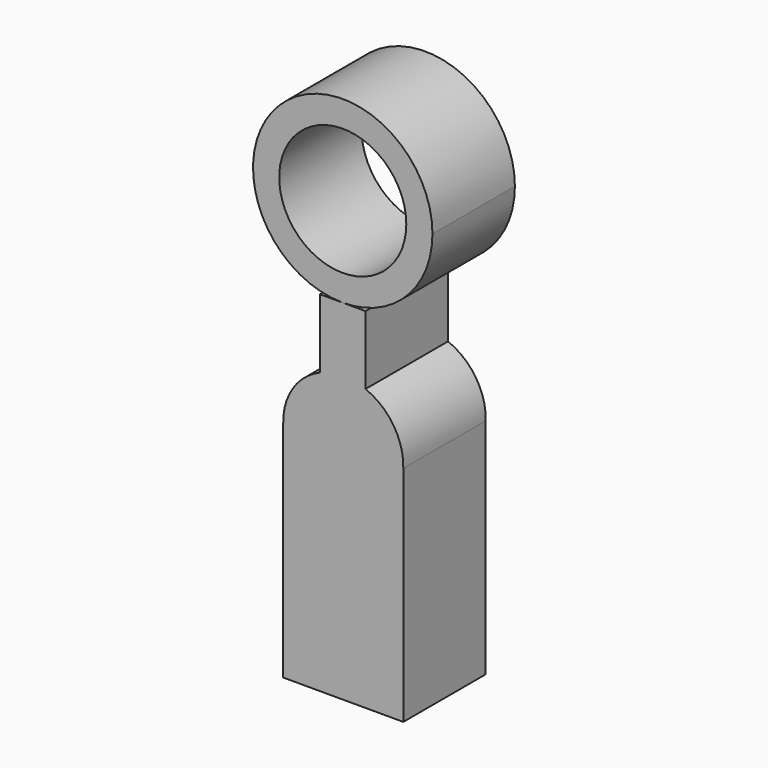
from build123d import *

# Parameters (mm, degrees)
F1_DEPTH = 12.7
F0_R     = 15.660762
F2_DEPTH = 12.7


with BuildPart() as f1:
    # F0 (on Front) → F1 (new body, symmetric)
    with BuildSketch(Plane.XZ):
        with BuildLine():
            Line((9.044379, 86.110003), (9.044379, 69.112956))
            ThreePointArc((9.044379, 69.112956), (14.661603, 70.275832), (20.299211, 69.216185))
            Line((20.299211, 69.216185), (20.299211, 86.110003))
            Line((20.299211, 86.110003), (14.671795, 86.110003))
            Line((14.671795, 86.110003), (9.044379, 86.110003))
        make_face()
        with BuildLine():
            Line((0, 55.002023), (0, 0))
            Line((0, 0), (29.594775, 0))
            Line((29.594775, 0), (29.594775, 55.002023))
            ThreePointArc((29.594775, 55.002023), (27.187912, 63.574587), (20.299211, 69.216185))
            ThreePointArc((20.299211, 69.216185), (14.661603, 70.275832), (9.044379, 69.112956))
            ThreePointArc((9.044379, 69.112956), (2.333067, 63.460604), (0, 55.002023))
        make_face()
    extrude(amount=F1_DEPTH, both=True)

    # F0 (on Front) → F2 (join, symmetric)
    with BuildSketch(Plane.XZ):
        with BuildLine():
            Line((0, 55.002023), (0, 0))
            Line((0, 0), (29.594775, 0))
            Line((29.594775, 0), (29.594775, 55.002023))
            ThreePointArc((29.594775, 55.002023), (27.187912, 63.574587), (20.299211, 69.216185))
            ThreePointArc((20.299211, 69.216185), (14.661603, 70.275832), (9.044379, 69.112956))
            ThreePointArc((9.044379, 69.112956), (2.333067, 63.460604), (0, 55.002023))
        make_face()
        with BuildLine():
            ThreePointArc((36.782101, 108.220309), (-0.962552, 123.854656), (14.671795, 86.110003))
            ThreePointArc((14.671795, 86.110003), (30.306142, 92.585962), (36.782101, 108.220309))
        make_face()
        with Locations((14.671795, 108.220309)):
            Circle(F0_R, mode=Mode.SUBTRACT)
        with BuildLine():
            Line((9.044379, 86.110003), (9.044379, 69.112956))
            ThreePointArc((9.044379, 69.112956), (14.661603, 70.275832), (20.299211, 69.216185))
            Line((20.299211, 69.216185), (20.299211, 86.110003))
            Line((20.299211, 86.110003), (14.671795, 86.110003))
            Line((14.671795, 86.110003), (9.044379, 86.110003))
        make_face()
    extrude(amount=F2_DEPTH, both=True)


solid = f1.part
